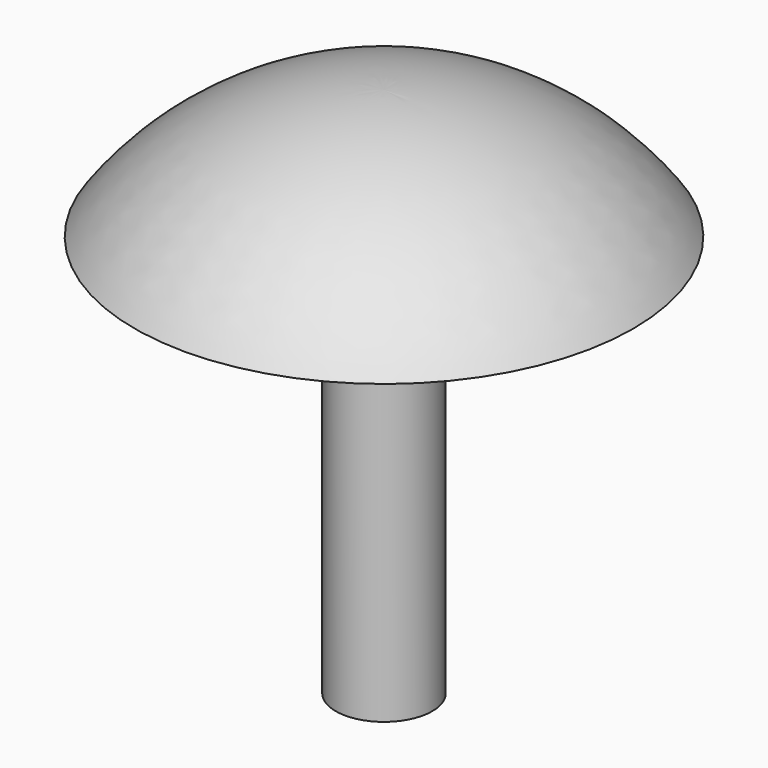
from build123d import *

# Parameters (mm, degrees)
F0_W = 0.762
F0_H = 6.35


with BuildPart() as f1:
    # F0 (on Front) → F1 (revolve)
    with BuildSketch(Plane.XZ):
        with Locations((0.381, 0)):
            Rectangle(F0_W, F0_H)
        with BuildLine():
            Line((0, 5.207), (0, 3.175))
            Line((0, 3.175), (0.762, 3.175))
            Line((0.762, 3.175), (3.937, 3.175))
            ThreePointArc((3.937, 3.175), (2.215231, 4.669041), (0, 5.207))
        make_face()
    revolve(axis=Axis((0, 0, 1.016), (0, 0, -1)))


solid = f1.part
